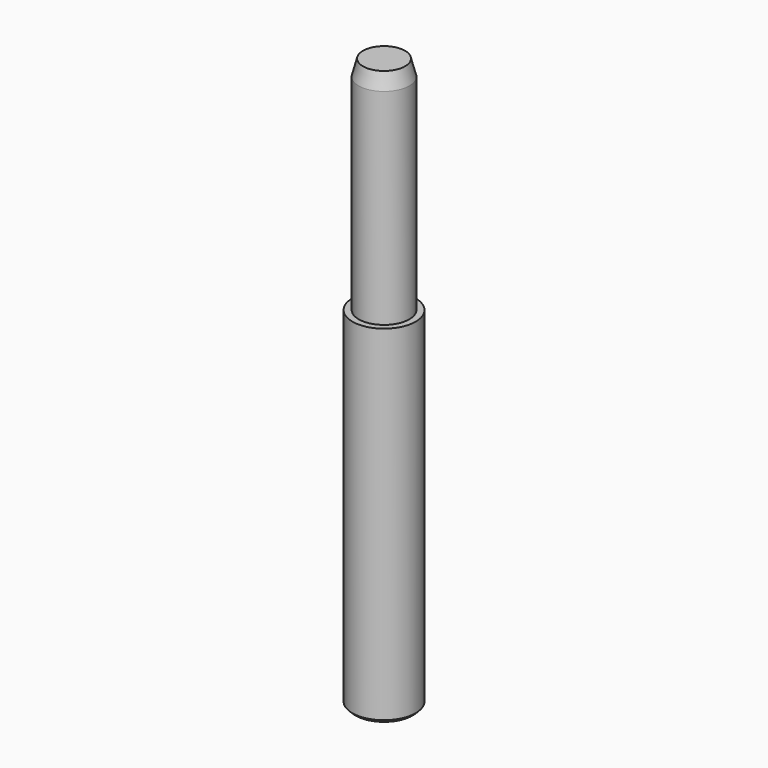
from build123d import *

# Parameters (mm, degrees)
F0_R     = 1
F1_DEPTH = 11
F2_R     = 0.8
F3_DEPTH = 7
F4_SIZE  = 0.1
F5_SIZE2 = 0.133975
F5_SIZE  = 0.5


with BuildPart() as f1:
    # F0 (on Top) → F1 (new body)
    with BuildSketch(Plane.XY):
        Circle(F0_R)
    extrude(amount=F1_DEPTH)

    # F2 (on face) → F3 (join)
    with BuildSketch(Plane.XY.offset(11)):
        Circle(F2_R)
    extrude(amount=F3_DEPTH)

    # F4
    f4_edges = [f1.edges().sort_by_distance(p)[0] for p in [
        (-1, 0, 0),
    ]]
    chamfer(f4_edges, length=F4_SIZE)

    # F5
    f5_edges = [f1.edges().sort_by_distance(p)[0] for p in [
        (-0.8, 0, 18),
    ]]
    chamfer(f5_edges, length=F5_SIZE, length2=F5_SIZE2)


solid = f1.part
